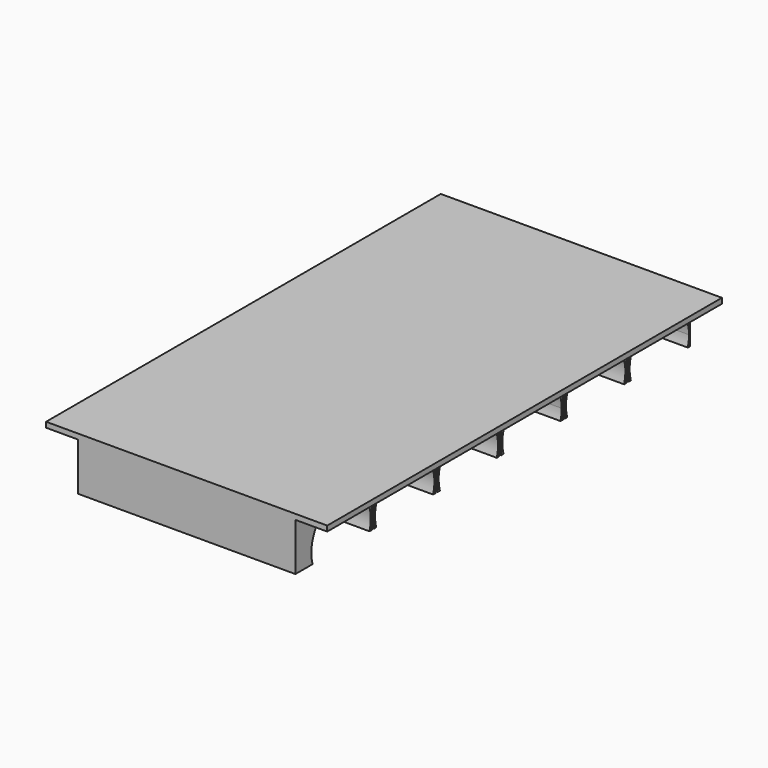
from build123d import *

# Parameters (mm, degrees)
F0_W     = 53
F0_H     = 93
F1_DEPTH = 1
F2_W     = 53
F2_H     = 93
F3_DEPTH = 10
F5_DEPTH = 70
F6_W     = 6
F6_H     = 95.9582039332
F6_H_2   = 4.0417960668
F7_DEPTH = 9
F8_DEPTH = 60


with BuildPart() as f1:
    # F0 (on Top) → F1 (new body)
    with BuildSketch(Plane.XY):
        with Locations((-26.5, 46.5)):
            Rectangle(F0_W, F0_H)
    extrude(amount=F1_DEPTH)

    # F2 (on face) → F3 (join)
    with BuildSketch(Plane.XY.offset(1)):
        with Locations((-26.5, 46.5)):
            Rectangle(F2_W, F2_H)
    extrude(amount=-F3_DEPTH)

    # F4 (on face) → F5 (cut)
    with BuildSketch(Plane.YZ):
        Polygon((93, -9), (92.4582039325, -9), (79.0417960675, -9), (78.4996898418, -9), (77.9999999123, -9), (77.4582039325, -9), (64.0417960675, -9), (63.4996898418, -9), (62.9999999123, -9), (62.4582039325, -9), (49.0417960675, -9), (48.4996898418, -9), (47.9999999123, -9), (47.4582039325, -9), (34.0417960675, -9), (33.4996898418, -9), (32.9999999123, -9), (32.4582039318, -9), (19.0417960668, -9), (18.4996898418, -9), (17.9999999123, -9), (17.4582039318, -9), (4.0417960668, -9), (0, -9), (0, -7.7468557283), (-7.4705565355, -7.7468557283), (-7.4705565355, -22.4550403655), (98.083905875, -22.4550403655), (98.083905875, -6.994248211), (93, -6.994248211), align=None)
        with BuildLine():
            Line((79.0417960675, -9), (92.4582039325, -9))
            ThreePointArc((92.4582039325, -9), (92.6770814653, -8.0077412234), (92.7499976369, -6.994248211))
            ThreePointArc((92.7499976369, -6.994248211), (84.7365672438, -0.0737489182), (79.0417960675, -9))
        make_face()
        with BuildLine():
            Line((64.0417960675, -9), (77.4582039325, -9))
            ThreePointArc((77.4582039325, -9), (71.760587075, -0.0733331419), (63.75, -7))
            ThreePointArc((63.75, -7), (63.8233331419, -8.010587075), (64.0417960675, -9))
        make_face()
        with BuildLine():
            Line((34.0417960675, -9), (47.4582039325, -9))
            ThreePointArc((47.4582039325, -9), (40.75, 0), (34.0417960675, -9))
        make_face()
        with BuildLine():
            ThreePointArc((62.4582039325, -9), (62.6766668581, -8.010587075), (62.75, -7))
            ThreePointArc((62.75, -7), (54.739412925, -0.0733331419), (49.0417960675, -9))
            Line((49.0417960675, -9), (62.4582039325, -9))
        make_face()
        with BuildLine():
            ThreePointArc((32.4582039318, -9), (25.7499999993, 0), (19.0417960668, -9))
            Line((19.0417960668, -9), (32.4582039318, -9))
        make_face()
        with BuildLine():
            ThreePointArc((17.4582039318, -9), (11.3890997117, -0.0292359416), (3.7899564275, -7.7468557283))
            ThreePointArc((3.7899564275, -7.7468557283), (3.8872133859, -8.3791881304), (4.0417960668, -9))
            Line((4.0417960668, -9), (17.4582039318, -9))
        make_face()
    extrude(amount=-F5_DEPTH, mode=Mode.SUBTRACT)

    # F6 (on face) → F7 (cut)
    with BuildSketch(Plane(origin=(0, 0, -9), x_dir=(1, 0, 0), z_dir=(0, 0, -1))):
        with Locations((-50, -52.0208980334)):
            Rectangle(F6_W, F6_H)
        with Locations((-50, -2.0208980334)):
            Rectangle(F6_W, F6_H_2)
        with Locations((-3, -2.0208980334)):
            Rectangle(F6_W, F6_H_2)
        with Locations((-3, -52.0208980334)):
            Rectangle(F6_W, F6_H)
    extrude(amount=-F7_DEPTH, mode=Mode.SUBTRACT)

    # F4 (on face) → F8 (cut)
    with BuildSketch(Plane.YZ):
        with BuildLine():
            Line((17.9996898451, -1.9988527525), (17.9999999123, -9))
            Line((17.9999999123, -9), (18.4996898418, -9))
            Line((18.4996898418, -9), (18.4999999113, -6.9988527429))
            Line((18.4999999113, -6.9988527429), (18.4996898418, -1.9988527525))
            ThreePointArc((18.4996898418, -1.9988527525), (18.2496898435, -1.7488527542), (17.9996898451, -1.9988527525))
        make_face()
        with BuildLine():
            Line((32.9996898451, -1.9988527525), (32.9999999123, -9))
            Line((32.9999999123, -9), (33.4996898418, -9))
            Line((33.4996898418, -9), (33.4999999113, -6.9988527429))
            Line((33.4999999113, -6.9988527429), (33.4996898418, -1.9988527525))
            ThreePointArc((33.4996898418, -1.9988527525), (33.2496898435, -1.7488527542), (32.9996898451, -1.9988527525))
        make_face()
        with BuildLine():
            Line((47.9999999123, -9), (48.4996898418, -9))
            Line((48.4996898418, -9), (48.4999999113, -6.9988527429))
            Line((48.4999999113, -6.9988527429), (48.4996898418, -1.9988527525))
            ThreePointArc((48.4996898418, -1.9988527525), (48.2496898435, -1.7488527542), (47.9996898451, -1.9988527525))
            Line((47.9996898451, -1.9988527525), (47.9999999123, -9))
        make_face()
        with BuildLine():
            Line((62.9999113362, -7), (63.4999997335, -7))
            Line((63.4999997335, -7), (63.4999999113, -6.9988527429))
            Line((63.4999999113, -6.9988527429), (63.4996898418, -1.9988527525))
            ThreePointArc((63.4996898418, -1.9988527525), (63.2496898435, -1.7488527542), (62.9996898451, -1.9988527525))
            Line((62.9996898451, -1.9988527525), (62.9999113362, -7))
        make_face()
        with BuildLine():
            Line((77.9999999123, -9), (78.4996898418, -9))
            Line((78.4996898418, -9), (78.4999999113, -6.9988527429))
            Line((78.4999999113, -6.9988527429), (78.4996898418, -1.9988527525))
            ThreePointArc((78.4996898418, -1.9988527525), (78.2496898435, -1.7488527542), (77.9996898451, -1.9988527525))
            Line((77.9996898451, -1.9988527525), (77.9999999123, -9))
        make_face()
        Polygon((63.4996898418, -9), (63.4999997335, -7), (62.9999113362, -7), (62.9999999123, -9), align=None)
    extrude(amount=-F8_DEPTH, mode=Mode.SUBTRACT)


solid = f1.part
